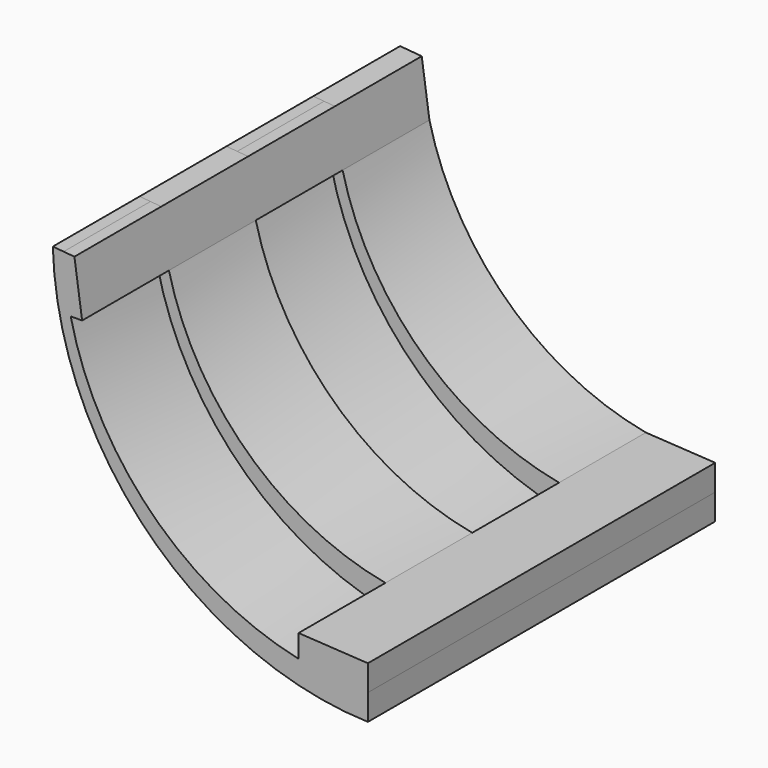
from build123d import *

# Parameters (mm, degrees)
F1_DEPTH = 76.2
F2_DEPTH = 50.8
F4_DEPTH = 50.8
F5_DEPTH = 25.4
F6_DEPTH = 50.8


with BuildPart() as f1:
    # F0 (on Front) → F1 (new body)
    with BuildSketch(Plane.XZ):
        with BuildLine():
            Line((5.060865, 73.516467), (0, 73.956974))
            ThreePointArc((0, 73.956974), (22.2398, 22.393389), (73.736869, 0))
            Line((73.736869, 0), (73.738756, 12.0904))
            ThreePointArc((73.738756, 12.0904), (26.455464, 28.330906), (5.060865, 73.516467))
        make_face()
    extrude(amount=F1_DEPTH)

    # F0 (on Front) → F2 (cut)
    with BuildSketch(Plane.XZ):
        with BuildLine():
            Line((5.060865, 73.516467), (0, 73.956974))
            ThreePointArc((0, 73.956974), (22.2398, 22.393389), (73.736869, 0))
            Line((73.736869, 0), (73.738756, 12.0904))
            ThreePointArc((73.738756, 12.0904), (26.455464, 28.330906), (5.060865, 73.516467))
        make_face()
    extrude(amount=F2_DEPTH, mode=Mode.SUBTRACT)

    # F3 (on face) → F4 (join)
    with BuildSketch(Plane(origin=(0, -50.8, 0), x_dir=(-1, 0, 0), z_dir=(0, 1, 0))):
        with BuildLine():
            Line((-73.738756, 12.0904), (-73.737813, 6.0452))
            ThreePointArc((-73.737813, 6.0452), (-65.578858, 6.40406), (-57.516672, 7.707316))
            Line((-57.516672, 7.707316), (-57.516672, 13.041316))
            Line((-57.516672, 13.041316), (-73.738756, 12.0904))
        make_face()
        with BuildLine():
            ThreePointArc((-57.516672, 7.707316), (-65.578858, 6.40406), (-73.737813, 6.0452))
            Line((-73.737813, 6.0452), (-73.736869, 0))
            ThreePointArc((-73.736869, 0), (-22.206337, 22.360026), (0, 73.956974))
            Line((0, 73.956974), (-2.530432, 73.73672))
            ThreePointArc((-2.530432, 73.73672), (-3.061646, 67.302687), (-4.181222, 60.94458))
            ThreePointArc((-4.181222, 60.94458), (-23.10727, 26.569993), (-57.516672, 7.707316))
        make_face()
        with BuildLine():
            Line((-6.860218, 60.94458), (-4.181222, 60.94458))
            ThreePointArc((-4.181222, 60.94458), (-3.061646, 67.302687), (-2.530432, 73.73672))
            Line((-2.530432, 73.73672), (-5.060865, 73.516467))
            Line((-5.060865, 73.516467), (-6.860218, 60.94458))
        make_face()
    extrude(amount=F4_DEPTH)

    # F0 (on Front) → F5 (join)
    with BuildSketch(Plane.XZ):
        with BuildLine():
            Line((5.060865, 73.516467), (0, 73.956974))
            ThreePointArc((0, 73.956974), (22.2398, 22.393389), (73.736869, 0))
            Line((73.736869, 0), (73.738756, 12.0904))
            ThreePointArc((73.738756, 12.0904), (26.455464, 28.330906), (5.060865, 73.516467))
        make_face()
    extrude(amount=F5_DEPTH)

    # F3 (on face) → F6 (join)
    with BuildSketch(Plane(origin=(0, -50.8, 0), x_dir=(-1, 0, 0), z_dir=(0, 1, 0))):
        with BuildLine():
            Line((-73.738756, 12.0904), (-73.737813, 6.0452))
            ThreePointArc((-73.737813, 6.0452), (-65.578858, 6.40406), (-57.516672, 7.707316))
            Line((-57.516672, 7.707316), (-57.516672, 13.041316))
            Line((-57.516672, 13.041316), (-73.738756, 12.0904))
        make_face()
        with BuildLine():
            ThreePointArc((-57.516672, 7.707316), (-65.578858, 6.40406), (-73.737813, 6.0452))
            Line((-73.737813, 6.0452), (-73.736869, 0))
            ThreePointArc((-73.736869, 0), (-22.206337, 22.360026), (0, 73.956974))
            Line((0, 73.956974), (-2.530432, 73.73672))
            ThreePointArc((-2.530432, 73.73672), (-3.061646, 67.302687), (-4.181222, 60.94458))
            ThreePointArc((-4.181222, 60.94458), (-23.10727, 26.569993), (-57.516672, 7.707316))
        make_face()
        with BuildLine():
            Line((-6.860218, 60.94458), (-4.181222, 60.94458))
            ThreePointArc((-4.181222, 60.94458), (-3.061646, 67.302687), (-2.530432, 73.73672))
            Line((-2.530432, 73.73672), (-5.060865, 73.516467))
            Line((-5.060865, 73.516467), (-6.860218, 60.94458))
        make_face()
    extrude(amount=-F6_DEPTH)


solid = f1.part
